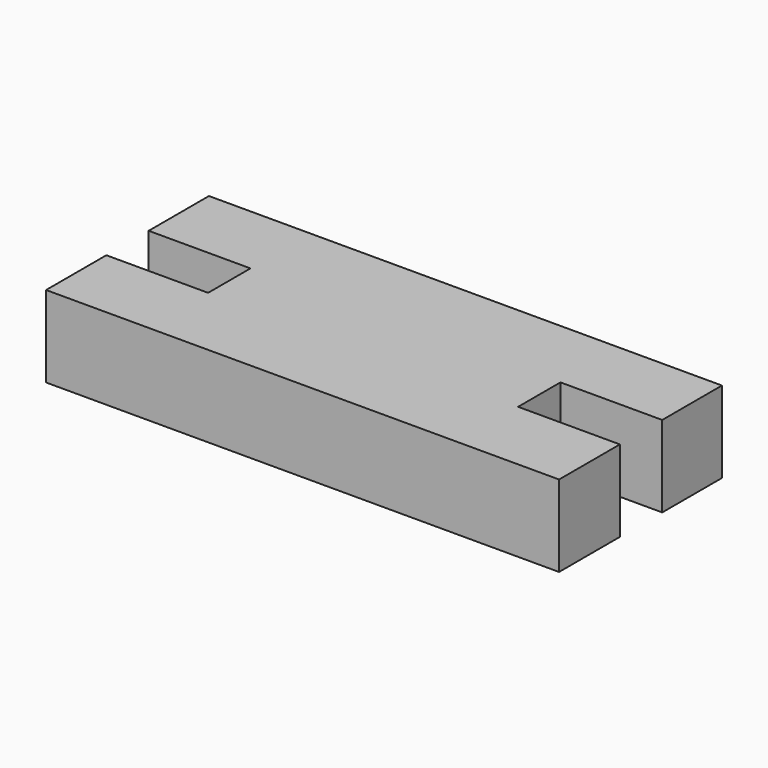
from build123d import *

# Parameters (mm, degrees)
F0_W     = 126
F0_H     = 20
F1_DEPTH = 25
F2_W     = 25
F2_H     = 13
F3_DEPTH = 20.001


with BuildPart() as f1:
    # F0 (on Front) → F1 (new body, symmetric)
    with BuildSketch(Plane.XZ):
        with Locations((17.770063, 19.73324)):
            Rectangle(F0_W, F0_H)
    extrude(amount=F1_DEPTH, both=True)

    # F2 (on face) → F3 (cut, through all)
    with BuildSketch(Plane.XY.offset(29.73324)):
        with Locations((-32.729937, 0)):
            Rectangle(F2_W, F2_H)
        with Locations((68.270063, 0.172407)):
            Rectangle(F2_W, F2_H)
    extrude(amount=-F3_DEPTH, mode=Mode.SUBTRACT)


solid = f1.part
